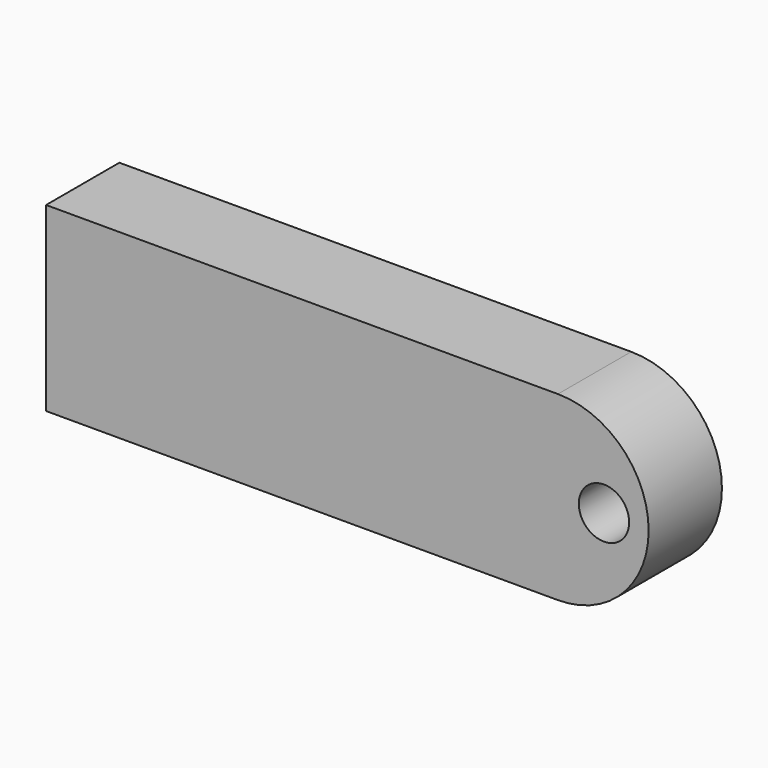
from build123d import *

# Parameters (mm, degrees)
F0_W     = 57.335348
F0_H     = 20.32
F0_R     = 2.820213
F1_DEPTH = 10.25843


with BuildPart() as f1:
    # F0 (on Front) → F1 (new body)
    with BuildSketch(Plane.XZ):
        with Locations((-28.667674, 10.16)):
            Rectangle(F0_W, F0_H)
        with BuildLine():
            Line((0, 20.32), (0, 0))
            ThreePointArc((0, 0), (10.16, 10.16), (0, 20.32))
        make_face()
        with Locations((5.156618, 10.262973)):
            Circle(F0_R, mode=Mode.SUBTRACT)
    extrude(amount=F1_DEPTH)


solid = f1.part
